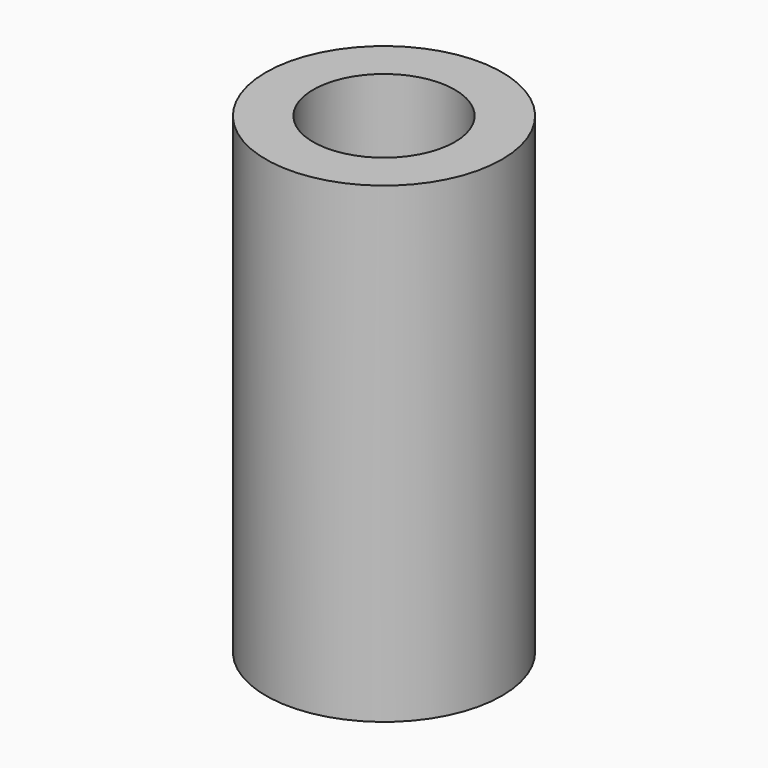
from build123d import *

# Parameters (mm, degrees)
SKETCH_R   = 2.5
SKETCH_R_2 = 1.5
PAD_DEPTH  = 10


with BuildPart() as part:
    # Sketch → Pad (new body)
    with BuildSketch(Plane.XY):
        Circle(SKETCH_R)
        Circle(SKETCH_R_2, mode=Mode.SUBTRACT)
    extrude(amount=PAD_DEPTH)


solid = part.part
